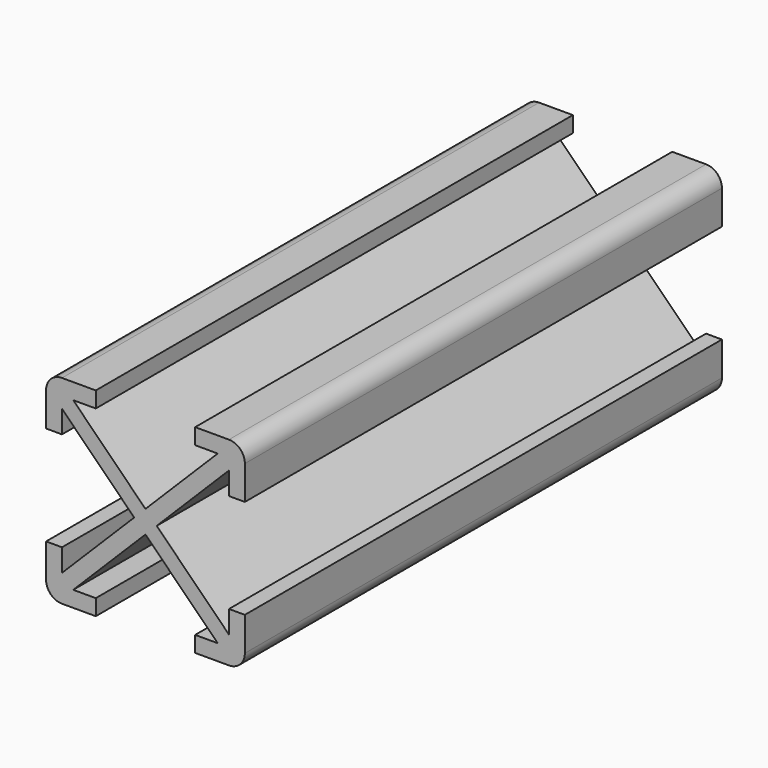
from build123d import *

# Parameters (mm, degrees)
F1_DEPTH = 75


with BuildPart() as f1:
    # F0 (on Front) → F1 (new body, symmetric)
    with BuildSketch(Plane.XZ):
        with BuildLine():
            Line((21, 25), (12.5, 25))
            Line((12.5, 25), (12.5, 21))
            Line((12.5, 21), (18.171573, 21))
            Line((18.171573, 21), (0, 2.828427))
            Line((0, 2.828427), (-18.171573, 21))
            Line((-18.171573, 21), (-12.5, 21))
            Line((-12.5, 21), (-12.5, 25))
            Line((-12.5, 25), (-21, 25))
            ThreePointArc((-21, 25), (-23.828427, 23.828427), (-25, 21))
            Line((-25, 21), (-25, 12.5))
            Line((-25, 12.5), (-21, 12.5))
            Line((-21, 12.5), (-21, 18.171573))
            Line((-21, 18.171573), (-2.828427, 0))
            Line((-2.828427, 0), (-21, -18.171573))
            Line((-21, -18.171573), (-21, -12.5))
            Line((-21, -12.5), (-25, -12.5))
            Line((-25, -12.5), (-25, -21))
            ThreePointArc((-25, -21), (-23.828427, -23.828427), (-21, -25))
            Line((-21, -25), (-12.5, -25))
            Line((-12.5, -25), (-12.5, -21))
            Line((-12.5, -21), (-18.171573, -21))
            Line((-18.171573, -21), (0, -2.828427))
            Line((0, -2.828427), (18.171573, -21))
            Line((18.171573, -21), (12.5, -21))
            Line((12.5, -21), (12.5, -25))
            Line((12.5, -25), (21, -25))
            ThreePointArc((21, -25), (23.828427, -23.828427), (25, -21))
            Line((25, -21), (25, -12.5))
            Line((25, -12.5), (21, -12.5))
            Line((21, -12.5), (21, -18.171573))
            Line((21, -18.171573), (2.828427, 0))
            Line((2.828427, 0), (21, 18.171573))
            Line((21, 18.171573), (21, 12.5))
            Line((21, 12.5), (25, 12.5))
            Line((25, 12.5), (25, 21))
            ThreePointArc((25, 21), (23.828427, 23.828427), (21, 25))
        make_face()
    extrude(amount=F1_DEPTH, both=True)


solid = f1.part
